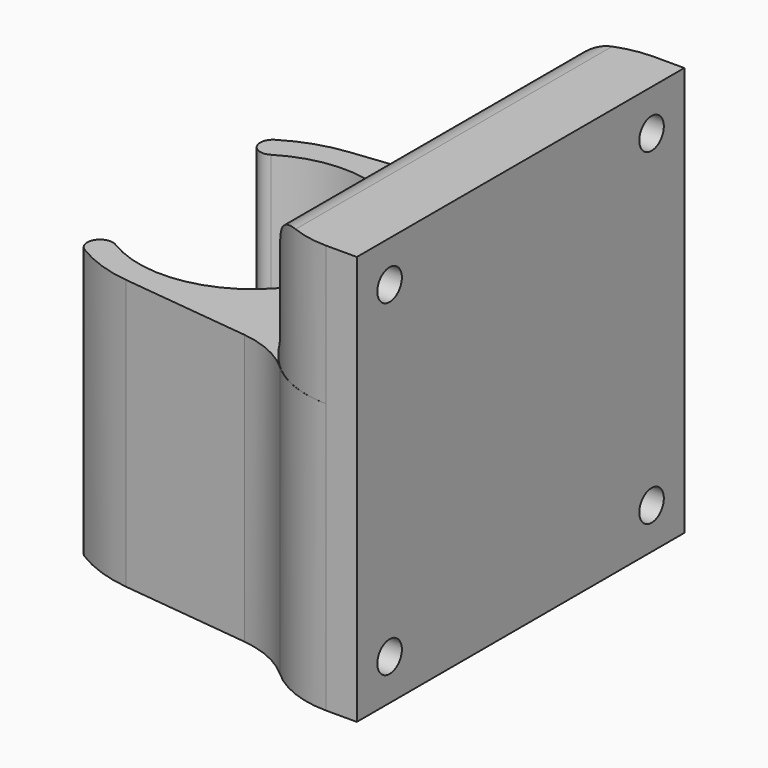
from build123d import *

# Parameters (mm, degrees)
PAD001_DEPTH = 1.4
PAD_DEPTH    = 26.4
PAD002_DEPTH = 13.6
FILLET_R     = 3
SKETCH029_R  = 1.5
POCKET_DEPTH = 7


with BuildPart() as pad001:
    # Sketch001 → Pad001 (new body)
    with BuildSketch(Plane.XY.offset(1)):
        with BuildLine():
            ThreePointArc((-5.627749, -9.1592), (10.75, 0), (-5.627749, 9.1592))
            ThreePointArc((-6.674772, 10.863237), (-7.003279, 9.487707), (-5.627749, 9.1592))
            ThreePointArc((-6.674778, -10.863233), (12.75, -4e-06), (-6.674772, 10.863237))
            ThreePointArc((-5.627749, -9.1592), (-7.003277, -9.487704), (-6.674778, -10.863233))
        make_face()
    extrude(amount=PAD001_DEPTH)


with BuildPart() as mainblock003:
    # Sketch → Pad (new body)
    with BuildSketch(Plane.XY):
        with BuildLine():
            ThreePointArc((-5.837167, -9.499999), (11.15, -4e-06), (-5.83716, 9.500003))
            ThreePointArc((-7.146244, 11.630572), (-7.556981, 9.910749), (-5.83716, 9.500003))
            ThreePointArc((-1.535936, 13.563919), (-4.447417, 12.905792), (-7.146244, 11.630572))
            Line((-1.535936, 13.563919), (11.151047, 15.000553))
            ThreePointArc((11.151047, 15.000553), (14.071423, 15.805596), (16.602936, 17.469367))
            ThreePointArc((23.150107, 20), (19.640497, 19.345319), (16.602936, 17.469367))
            Line((26.150107, 20), (23.150107, 20))
            Line((26.150107, 20), (26.150107, -20))
            Line((26.150107, -20), (23.150107, -20))
            ThreePointArc((16.603443, -17.468808), (19.640708, -19.344966), (23.150107, -20))
            ThreePointArc((16.603443, -17.468808), (14.071743, -15.804671), (11.151047, -14.999447))
            Line((-1.535936, -13.562681), (11.151047, -14.999447))
            ThreePointArc((-7.145609, -11.629518), (-4.447087, -12.904605), (-1.535936, -13.562681))
            ThreePointArc((-5.837167, -9.499999), (-7.556142, -9.910541), (-7.145609, -11.629518))
        make_face()
    extrude(amount=PAD_DEPTH)

    # Sketch005 → Pad002 (new body)
    with BuildSketch(Plane.XY.offset(26.4)):
        with BuildLine():
            ThreePointArc((23.150107, 20), (19.654391, 19.341825), (16.630025, 17.469276))
            Line((16.630025, 17.469276), (16.630025, -17.469302))
            ThreePointArc((16.630025, -17.469302), (19.654393, -19.341837), (23.150107, -20))
            Line((26.150107, -20), (23.150107, -20))
            Line((26.150107, 20), (26.150107, -20))
            Line((26.150107, 20), (23.150107, 20))
        make_face()
    extrude(amount=PAD002_DEPTH)

    # Fillet
    fillet_edges = [mainblock003.edges().sort_by_distance(p)[0] for p in [
        (16.630025, -1.3e-05, 40),
        (16.630025, -1.3e-05, 26.4),
    ]]
    fillet(fillet_edges, radius=FILLET_R)

    # Fusion: union Pad001
    add(pad001.part)


with BuildPart() as mainblock003_1:
    # Fusion placement: moved
    add(mainblock003.part.moved(Location((0, 0, 19.75))))

    # Sketch029 → Pocket (cut)
    with BuildSketch(Plane(origin=(26.150107, 0, 19.75), x_dir=(0, 1, 0), z_dir=(1, 0, 0))):
        with Locations((-16, 36)):
            Circle(SKETCH029_R)
        with Locations((16, 36)):
            Circle(SKETCH029_R)
        with Locations((16, 4)):
            Circle(SKETCH029_R)
        with Locations((-16, 4)):
            Circle(SKETCH029_R)
    extrude(amount=-POCKET_DEPTH, mode=Mode.SUBTRACT)


solid = mainblock003_1.part
